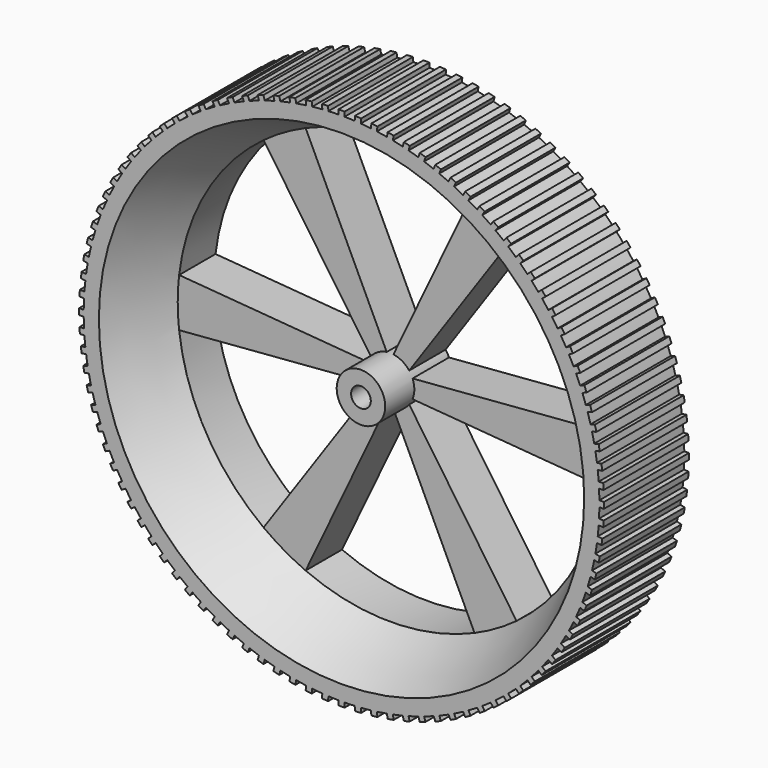
from build123d import *

# Parameters (mm, degrees)
F3_DEPTH      = 15
F4_DEPTH      = 20
F4_DEPTH_BACK = 15
F6_D          = 6.5


with BuildPart() as f1:
    # F0 (on Top) → F1 (revolve)
    with BuildSketch(Plane.XY):
        Polygon((-85, 15), (-85, -20), (-80, -20), (-70, 0), (-70, 15), align=None)
    revolve(axis=Axis((0, 7.5, 0), (0, -1, 0)))



with BuildPart() as f1b:
    # F0 (on Top) → F1, piece 2 (revolve)
    with BuildSketch(Plane.XY):
        Polygon((-8, 15), (-8, 0), (-8, -12), (0, -12), (0, 0), (0, 15), align=None)
    revolve(axis=Axis((0, 7.5, 0), (0, -1, 0)))


with BuildPart() as f1_1:
    add(f1.part)

    add(f1b.part)  # F3 merges F1b
    # F2 (on Front) → F3 (join)
    with BuildSketch(Plane.XZ):
        with BuildLine():
            Line((-7.4161984871, 3), (-69.5413546029, 8))
            ThreePointArc((-69.5413546029, 8), (-70, 0), (-69.5413546029, -8))
            Line((-69.5413546029, -8), (-7.4161984871, -3))
            ThreePointArc((-7.4161984871, -3), (-8, 0), (-7.4161984871, 3))
        make_face()
        with BuildLine():
            Line((-1.1100230322, 7.9226162893), (-27.8424740712, 64.2245796997))
            ThreePointArc((-27.8424740712, 64.2245796997), (-35, 60.6217782649), (-41.6988805317, 56.2245796997))
            Line((-41.6988805317, 56.2245796997), (-6.3061754549, 4.9226162893))
            ThreePointArc((-6.3061754549, 4.9226162893), (-4, 6.9282032303), (-1.1100230322, 7.9226162893))
        make_face()
        with BuildLine():
            Line((6.3061754549, 4.9226162893), (41.6988805317, 56.2245796997))
            ThreePointArc((41.6988805317, 56.2245796997), (35, 60.6217782649), (27.8424740712, 64.2245796997))
            Line((27.8424740712, 64.2245796997), (1.1100230322, 7.9226162893))
            ThreePointArc((1.1100230322, 7.9226162893), (4, 6.9282032303), (6.3061754549, 4.9226162893))
        make_face()
        with BuildLine():
            ThreePointArc((69.5413546029, -8), (69.8852445878, -4.0065682198), (70, 0))
            ThreePointArc((70, 0), (69.8852445878, 4.0065682198), (69.5413546029, 8))
            Line((69.5413546029, 8), (7.4161984871, 3))
            ThreePointArc((7.4161984871, 3), (7.85269342, 1.5281380997), (8, 0))
            ThreePointArc((8, 0), (7.85269342, -1.5281380997), (7.4161984871, -3))
            Line((7.4161984871, -3), (69.5413546029, -8))
        make_face()
        with BuildLine():
            ThreePointArc((27.8424740712, -64.2245796997), (35, -60.6217782649), (41.6988805317, -56.2245796997))
            Line((41.6988805317, -56.2245796997), (6.3061754549, -4.9226162893))
            ThreePointArc((6.3061754549, -4.9226162893), (4, -6.9282032303), (1.1100230322, -7.9226162893))
            Line((1.1100230322, -7.9226162893), (27.8424740712, -64.2245796997))
        make_face()
        with BuildLine():
            ThreePointArc((-41.6988805317, -56.2245796997), (-35, -60.6217782649), (-27.8424740712, -64.2245796997))
            Line((-27.8424740712, -64.2245796997), (-1.1100230322, -7.9226162893))
            ThreePointArc((-1.1100230322, -7.9226162893), (-4, -6.9282032303), (-6.3061754549, -4.9226162893))
            Line((-6.3061754549, -4.9226162893), (-41.6988805317, -56.2245796997))
        make_face()
    extrude(amount=-F3_DEPTH)

    # F2 (on Front) → F4 (join, two sides)
    with BuildSketch(Plane.XZ) as f4_sk:
        with BuildLine():
            ThreePointArc((-84.4492466745, 9.6604728718), (-84.3297496117, 10.653324853), (-84.1985802074, 11.6447022745))
            Line((-84.1985802074, 11.6447022745), (-85.6925884301, 11.8334394046))
            Line((-85.6925884301, 11.8334394046), (-85.9432548973, 9.849210002))
            Line((-85.9432548973, 9.849210002), (-84.4492466745, 9.6604728718))
        make_face()
        with BuildLine():
            Line((-85.6925884301, -11.8334394046), (-84.1985802074, -11.6447022745))
            ThreePointArc((-84.1985802074, -11.6447022745), (-84.3297496117, -10.653324853), (-84.4492466745, -9.6604728718))
            Line((-84.4492466745, -9.6604728718), (-85.9432548973, -9.849210002))
            Line((-85.9432548973, -9.849210002), (-85.6925884301, -11.8334394046))
        make_face()
        with BuildLine():
            ThreePointArc((-82.5725608379, 20.1685943156), (-82.3295686959, 21.138640409), (-82.0751810636, 22.1057606378))
            Line((-82.0751810636, 22.1057606378), (-83.5337535505, 22.4802584009))
            Line((-83.5337535505, 22.4802584009), (-84.0311333248, 20.5430920786))
            Line((-84.0311333248, 20.5430920786), (-82.5725608379, 20.1685943156))
        make_face()
        with BuildLine():
            ThreePointArc((-83.6760192663, 14.9440222079), (-83.4944163119, 15.9274117398), (-83.3012566371, 16.9085967093))
            Line((-83.3012566371, 16.9085967093), (-84.7804658734, 17.1907709624))
            Line((-84.7804658734, 17.1907709624), (-85.1552285026, 15.2261964609))
            Line((-85.1552285026, 15.2261964609), (-83.6760192663, 14.9440222079))
        make_face()
        with BuildLine():
            ThreePointArc((-84.8891914873, 4.3387980628), (-84.8322719164, 5.33719416), (-84.7636104483, 6.3348515196))
            Line((-84.7636104483, 6.3348515196), (-86.2665214895, 6.4294066677))
            Line((-86.2665214895, 6.4294066677), (-86.3921025286, 4.4333532109))
            Line((-86.3921025286, 4.4333532109), (-84.8891914873, 4.3387980628))
        make_face()
        with BuildLine():
            Line((-86.2665214895, -6.4294066677), (-84.7636104483, -6.3348515196))
            ThreePointArc((-84.7636104483, -6.3348515196), (-84.8322719164, -5.33719416), (-84.8891914873, -4.3387980628))
            Line((-84.8891914873, -4.3387980628), (-86.3921025286, -4.4333532109))
            Line((-86.3921025286, -4.4333532109), (-86.2665214895, -6.4294066677))
        make_face()
        with BuildLine():
            Line((-84.7804658734, -17.1907709624), (-83.3012566371, -16.9085967093))
            ThreePointArc((-83.3012566371, -16.9085967093), (-83.4944163119, -15.9274117398), (-83.6760192663, -14.9440222079))
            Line((-83.6760192663, -14.9440222079), (-85.1552285026, -15.2261964609))
            Line((-85.1552285026, -15.2261964609), (-84.7804658734, -17.1907709624))
        make_face()
        with BuildLine():
            Line((-83.5337535505, -22.4802584009), (-82.0751810636, -22.1057606378))
            ThreePointArc((-82.0751810636, -22.1057606378), (-82.3295686959, -21.138640409), (-82.5725608379, -20.1685943156))
            Line((-82.5725608379, -20.1685943156), (-84.0311333248, -20.5430920786))
            Line((-84.0311333248, -20.5430920786), (-83.5337535505, -22.4802584009))
        make_face()
        with BuildLine():
            Line((-81.9573716652, -27.6810265297), (-80.525192247, -27.2156832282))
            ThreePointArc((-80.525192247, -27.2156832282), (-80.8398038851, -26.2664445219), (-81.1432262358, -25.3135701956))
            Line((-81.1432262358, -25.3135701956), (-82.5754056539, -25.7789134971))
            Line((-82.5754056539, -25.7789134971), (-81.9573716652, -27.6810265297))
        make_face()
        with BuildLine():
            Line((-80.0575414766, -32.7725502931), (-78.6574072851, -32.2181979506))
            ThreePointArc((-78.6574072851, -32.2181979506), (-79.0310013005, -31.2905869782), (-79.3936563905, -30.3586449788))
            Line((-79.3936563905, -30.3586449788), (-80.793790582, -30.9129973213))
            Line((-80.793790582, -30.9129973213), (-80.0575414766, -32.7725502931))
        make_face()
        with BuildLine():
            ThreePointArc((-69.349470686, 49.1492717705), (-68.7664445219, 49.9617464449), (-68.1739001814, 50.7673057593))
            Line((-68.1739001814, 50.7673057593), (-69.3921847611, 51.6524413177))
            Line((-69.3921847611, 51.6524413177), (-70.5677552657, 50.0344073289))
            Line((-70.5677552657, 50.0344073289), (-69.349470686, 49.1492717705))
        make_face()
        with BuildLine():
            Line((-77.8417607467, -37.7347357728), (-76.4791974718, -37.0935621648))
            ThreePointArc((-76.4791974718, -37.0935621648), (-76.9102994596, -36.191239783), (-77.3307560549, -35.2839080598))
            Line((-77.3307560549, -35.2839080598), (-78.6933193299, -35.9250816679))
            Line((-78.6933193299, -35.9250816679), (-77.8417607467, -37.7347357728))
        make_face()
        with BuildLine():
            ThreePointArc((-72.2987336559, 44.6977976163), (-71.7678736677, 45.5452775732), (-71.227080066, 46.3864534673))
            Line((-71.227080066, 46.3864534673), (-72.4985387609, 47.1933456912))
            Line((-72.4985387609, 47.1933456912), (-73.5701923509, 45.5046898402))
            Line((-73.5701923509, 45.5046898402), (-72.2987336559, 44.6977976163))
        make_face()
        with BuildLine():
            Line((-75.3187741497, -42.5479994898), (-73.9991592061, -41.8225350355))
            ThreePointArc((-73.9991592061, -41.8225350355), (-74.4860678037, -40.9490622986), (-74.9626665543, -40.0699216754))
            Line((-74.9626665543, -40.0699216754), (-76.2822814979, -40.7953861298))
            Line((-76.2822814979, -40.7953861298), (-75.3187741497, -42.5479994898))
        make_face()
        with BuildLine():
            ThreePointArc((-74.9626665543, 40.0699216754), (-74.4860678037, 40.9490622986), (-73.9991592061, 41.8225350355))
            Line((-73.9991592061, 41.8225350355), (-75.3187741497, 42.5479994898))
            Line((-75.3187741497, 42.5479994898), (-76.2822814979, 40.7953861298))
            Line((-76.2822814979, 40.7953861298), (-74.9626665543, 40.0699216754))
        make_face()
        with BuildLine():
            Line((-72.4985387609, -47.1933456912), (-71.227080066, -46.3864534673))
            ThreePointArc((-71.227080066, -46.3864534673), (-71.7678736677, -45.5452775732), (-72.2987336559, -44.6977976163))
            Line((-72.2987336559, -44.6977976163), (-73.5701923509, -45.5046898402))
            Line((-73.5701923509, -45.5046898402), (-72.4985387609, -47.1933456912))
        make_face()
        with BuildLine():
            ThreePointArc((-77.3307560549, 35.2839080598), (-76.9102994596, 36.191239783), (-76.4791974718, 37.0935621648))
            Line((-76.4791974718, 37.0935621648), (-77.8417607467, 37.7347357728))
            Line((-77.8417607467, 37.7347357728), (-78.6933193299, 35.9250816679))
            Line((-78.6933193299, 35.9250816679), (-77.3307560549, 35.2839080598))
        make_face()
        with BuildLine():
            Line((-69.3921847611, -51.6524413177), (-68.1739001814, -50.7673057593))
            ThreePointArc((-68.1739001814, -50.7673057593), (-68.7664445219, -49.9617464449), (-69.349470686, -49.1492717705))
            Line((-69.349470686, -49.1492717705), (-70.5677552657, -50.0344073289))
            Line((-70.5677552657, -50.0344073289), (-69.3921847611, -51.6524413177))
        make_face()
        with BuildLine():
            ThreePointArc((-79.3936563905, 30.3586449788), (-79.0310013005, 31.2905869782), (-78.6574072851, 32.2181979506))
            Line((-78.6574072851, 32.2181979506), (-80.0575414766, 32.7725502931))
            Line((-80.0575414766, 32.7725502931), (-80.793790582, 30.9129973213))
            Line((-80.793790582, 30.9129973213), (-79.3936563905, 30.3586449788))
        make_face()
        with BuildLine():
            ThreePointArc((-81.1432262358, 25.3135701956), (-80.8398038851, 26.2664445219), (-80.525192247, 27.2156832282))
            Line((-80.525192247, 27.2156832282), (-81.9573716652, 27.6810265297))
            Line((-81.9573716652, 27.6810265297), (-82.5754056539, 25.7789134971))
            Line((-82.5754056539, 25.7789134971), (-81.1432262358, 25.3135701956))
        make_face()
        with BuildLine():
            ThreePointArc((-84.9941174435, -1), (-85, 0), (-84.9941174435, 1))
            Line((-84.9941174435, 1), (-86.5, 1))
            Line((-86.5, 1), (-86.5, -1))
            Line((-86.5, -1), (-84.9941174435, -1))
        make_face()
        with BuildLine():
            ThreePointArc((-54.9478026888, 64.8516690585), (-54.1810391286, 65.4936256359), (-53.4067762032, 66.126517038))
            Line((-53.4067762032, 66.126517038), (-54.3666618705, 67.2868194899))
            Line((-54.3666618705, 67.2868194899), (-55.907688356, 66.0119715104))
            Line((-55.907688356, 66.0119715104), (-54.9478026888, 64.8516690585))
        make_face()
        with BuildLine():
            ThreePointArc((-46.3864534673, 71.227080066), (-45.5452775732, 71.7678736677), (-44.6977976163, 72.2987336559))
            Line((-44.6977976163, 72.2987336559), (-45.5046898402, 73.5701923509))
            Line((-45.5046898402, 73.5701923509), (-47.1933456912, 72.4985387609))
            Line((-47.1933456912, 72.4985387609), (-46.3864534673, 71.227080066))
        make_face()
        with BuildLine():
            ThreePointArc((-50.7673057593, 68.1739001814), (-49.9617464449, 68.7664445219), (-49.1492717705, 69.349470686))
            Line((-49.1492717705, 69.349470686), (-50.0344073289, 70.5677552657))
            Line((-50.0344073289, 70.5677552657), (-51.6524413177, 69.3921847611))
            Line((-51.6524413177, 69.3921847611), (-50.7673057593, 68.1739001814))
        make_face()
        with BuildLine():
            ThreePointArc((-58.9114457443, 61.2734980258), (-58.1865040039, 61.9623333308), (-57.4535084895, 62.6425922376))
            Line((-57.4535084895, 62.6425922376), (-58.4843560354, 63.7403333779))
            Line((-58.4843560354, 63.7403333779), (-59.9422932903, 62.371239166))
            Line((-59.9422932903, 62.371239166), (-58.9114457443, 61.2734980258))
        make_face()
        with BuildLine():
            ThreePointArc((-62.6425922376, 57.4535084895), (-61.9623333308, 58.1865040039), (-61.2734980258, 58.9114457443))
            Line((-61.2734980258, 58.9114457443), (-62.371239166, 59.9422932903))
            Line((-62.371239166, 59.9422932903), (-63.7403333779, 58.4843560354))
            Line((-63.7403333779, 58.4843560354), (-62.6425922376, 57.4535084895))
        make_face()
        with BuildLine():
            ThreePointArc((-66.126517038, 53.4067762032), (-65.4936256359, 54.1810391286), (-64.8516690585, 54.9478026888))
            Line((-64.8516690585, 54.9478026888), (-66.0119715104, 55.907688356))
            Line((-66.0119715104, 55.907688356), (-67.2868194899, 54.3666618705))
            Line((-67.2868194899, 54.3666618705), (-66.126517038, 53.4067762032))
        make_face()
        with BuildLine():
            ThreePointArc((-37.0935621648, 76.4791974718), (-36.191239783, 76.9102994596), (-35.2839080598, 77.3307560549))
            Line((-35.2839080598, 77.3307560549), (-35.9250816679, 78.6933193299))
            Line((-35.9250816679, 78.6933193299), (-37.7347357728, 77.8417607467))
            Line((-37.7347357728, 77.8417607467), (-37.0935621648, 76.4791974718))
        make_face()
        with BuildLine():
            ThreePointArc((-32.2181979506, 78.6574072851), (-31.2905869782, 79.0310013005), (-30.3586449788, 79.3936563905))
            Line((-30.3586449788, 79.3936563905), (-30.9129973213, 80.793790582))
            Line((-30.9129973213, 80.793790582), (-32.7725502931, 80.0575414766))
            Line((-32.7725502931, 80.0575414766), (-32.2181979506, 78.6574072851))
        make_face()
        with BuildLine():
            ThreePointArc((35.2839080598, 77.3307560549), (36.191239783, 76.9102994596), (37.0935621648, 76.4791974718))
            Line((37.0935621648, 76.4791974718), (37.7347357728, 77.8417607467))
            Line((37.7347357728, 77.8417607467), (35.9250816679, 78.6933193299))
            Line((35.9250816679, 78.6933193299), (35.2839080598, 77.3307560549))
        make_face()
        with BuildLine():
            ThreePointArc((30.3586449788, 79.3936563905), (31.2905869782, 79.0310013005), (32.2181979506, 78.6574072851))
            Line((32.2181979506, 78.6574072851), (32.7725502931, 80.0575414766))
            Line((32.7725502931, 80.0575414766), (30.9129973213, 80.793790582))
            Line((30.9129973213, 80.793790582), (30.3586449788, 79.3936563905))
        make_face()
        with BuildLine():
            ThreePointArc((25.3135701956, 81.1432262358), (26.2664445219, 80.8398038851), (27.2156832282, 80.525192247))
            Line((27.2156832282, 80.525192247), (27.6810265297, 81.9573716652))
            Line((27.6810265297, 81.9573716652), (25.7789134971, 82.5754056539))
            Line((25.7789134971, 82.5754056539), (25.3135701956, 81.1432262358))
        make_face()
        with BuildLine():
            ThreePointArc((-27.2156832282, 80.525192247), (-26.2664445219, 80.8398038851), (-25.3135701956, 81.1432262358))
            Line((-25.3135701956, 81.1432262358), (-25.7789134971, 82.5754056539))
            Line((-25.7789134971, 82.5754056539), (-27.6810265297, 81.9573716652))
            Line((-27.6810265297, 81.9573716652), (-27.2156832282, 80.525192247))
        make_face()
        with BuildLine():
            ThreePointArc((-41.8225350355, 73.9991592061), (-40.9490622986, 74.4860678037), (-40.0699216754, 74.9626665543))
            Line((-40.0699216754, 74.9626665543), (-40.7953861298, 76.2822814979))
            Line((-40.7953861298, 76.2822814979), (-42.5479994898, 75.3187741497))
            Line((-42.5479994898, 75.3187741497), (-41.8225350355, 73.9991592061))
        make_face()
        with BuildLine():
            ThreePointArc((20.1685943156, 82.5725608379), (21.138640409, 82.3295686959), (22.1057606378, 82.0751810636))
            Line((22.1057606378, 82.0751810636), (22.4802584009, 83.5337535505))
            Line((22.4802584009, 83.5337535505), (20.5430920786, 84.0311333248))
            Line((20.5430920786, 84.0311333248), (20.1685943156, 82.5725608379))
        make_face()
        with BuildLine():
            ThreePointArc((14.9440222079, 83.6760192663), (15.9274117398, 83.4944163119), (16.9085967093, 83.3012566371))
            Line((16.9085967093, 83.3012566371), (17.1907709624, 84.7804658734))
            Line((17.1907709624, 84.7804658734), (15.2261964609, 85.1552285026))
            Line((15.2261964609, 85.1552285026), (14.9440222079, 83.6760192663))
        make_face()
        with BuildLine():
            ThreePointArc((9.6604728718, 84.4492466745), (10.653324853, 84.3297496117), (11.6447022745, 84.1985802074))
            Line((11.6447022745, 84.1985802074), (11.8334394046, 85.6925884301))
            Line((11.8334394046, 85.6925884301), (9.849210002, 85.9432548973))
            Line((9.849210002, 85.9432548973), (9.6604728718, 84.4492466745))
        make_face()
        with BuildLine():
            ThreePointArc((4.3387980628, 84.8891914873), (5.33719416, 84.8322719164), (6.3348515196, 84.7636104483))
            Line((6.3348515196, 84.7636104483), (6.4294066677, 86.2665214895))
            Line((6.4294066677, 86.2665214895), (4.4333532109, 86.3921025286))
            Line((4.4333532109, 86.3921025286), (4.3387980628, 84.8891914873))
        make_face()
        with BuildLine():
            ThreePointArc((-1, 84.9941174435), (0, 85), (1, 84.9941174435))
            Line((1, 84.9941174435), (1, 86.5))
            Line((1, 86.5), (-1, 86.5))
            Line((-1, 86.5), (-1, 84.9941174435))
        make_face()
        with BuildLine():
            ThreePointArc((-6.3348515196, 84.7636104483), (-5.33719416, 84.8322719164), (-4.3387980628, 84.8891914873))
            Line((-4.3387980628, 84.8891914873), (-4.4333532109, 86.3921025286))
            Line((-4.4333532109, 86.3921025286), (-6.4294066677, 86.2665214895))
            Line((-6.4294066677, 86.2665214895), (-6.3348515196, 84.7636104483))
        make_face()
        with BuildLine():
            ThreePointArc((-11.6447022745, 84.1985802074), (-10.653324853, 84.3297496117), (-9.6604728718, 84.4492466745))
            Line((-9.6604728718, 84.4492466745), (-9.849210002, 85.9432548973))
            Line((-9.849210002, 85.9432548973), (-11.8334394046, 85.6925884301))
            Line((-11.8334394046, 85.6925884301), (-11.6447022745, 84.1985802074))
        make_face()
        with BuildLine():
            ThreePointArc((-16.9085967093, 83.3012566371), (-15.9274117398, 83.4944163119), (-14.9440222079, 83.6760192663))
            Line((-14.9440222079, 83.6760192663), (-15.2261964609, 85.1552285026))
            Line((-15.2261964609, 85.1552285026), (-17.1907709624, 84.7804658734))
            Line((-17.1907709624, 84.7804658734), (-16.9085967093, 83.3012566371))
        make_face()
        with BuildLine():
            ThreePointArc((-22.1057606378, 82.0751810636), (-21.138640409, 82.3295686959), (-20.1685943156, 82.5725608379))
            Line((-20.1685943156, 82.5725608379), (-20.5430920786, 84.0311333248))
            Line((-20.5430920786, 84.0311333248), (-22.4802584009, 83.5337535505))
            Line((-22.4802584009, 83.5337535505), (-22.1057606378, 82.0751810636))
        make_face()
        with BuildLine():
            ThreePointArc((40.0699216754, 74.9626665543), (40.9490622986, 74.4860678037), (41.8225350355, 73.9991592061))
            Line((41.8225350355, 73.9991592061), (42.5479994898, 75.3187741497))
            Line((42.5479994898, 75.3187741497), (40.7953861298, 76.2822814979))
            Line((40.7953861298, 76.2822814979), (40.0699216754, 74.9626665543))
        make_face()
        with BuildLine():
            ThreePointArc((44.6977976163, 72.2987336559), (45.5452775732, 71.7678736677), (46.3864534673, 71.227080066))
            Line((46.3864534673, 71.227080066), (47.1933456912, 72.4985387609))
            Line((47.1933456912, 72.4985387609), (45.5046898402, 73.5701923509))
            Line((45.5046898402, 73.5701923509), (44.6977976163, 72.2987336559))
        make_face()
        with BuildLine():
            ThreePointArc((53.4067762032, 66.126517038), (54.1810391286, 65.4936256359), (54.9478026888, 64.8516690585))
            Line((54.9478026888, 64.8516690585), (55.907688356, 66.0119715104))
            Line((55.907688356, 66.0119715104), (54.3666618705, 67.2868194899))
            Line((54.3666618705, 67.2868194899), (53.4067762032, 66.126517038))
        make_face()
        with BuildLine():
            ThreePointArc((57.4535084895, 62.6425922376), (58.1865040039, 61.9623333308), (58.9114457443, 61.2734980258))
            Line((58.9114457443, 61.2734980258), (59.9422932903, 62.371239166))
            Line((59.9422932903, 62.371239166), (58.4843560354, 63.7403333779))
            Line((58.4843560354, 63.7403333779), (57.4535084895, 62.6425922376))
        make_face()
        with BuildLine():
            ThreePointArc((68.1739001814, 50.7673057593), (68.7664445219, 49.9617464449), (69.349470686, 49.1492717705))
            Line((69.349470686, 49.1492717705), (70.5677552657, 50.0344073289))
            Line((70.5677552657, 50.0344073289), (69.3921847611, 51.6524413177))
            Line((69.3921847611, 51.6524413177), (68.1739001814, 50.7673057593))
        make_face()
        with BuildLine():
            ThreePointArc((64.8516690585, 54.9478026888), (65.4936256359, 54.1810391286), (66.126517038, 53.4067762032))
            Line((66.126517038, 53.4067762032), (67.2868194899, 54.3666618705))
            Line((67.2868194899, 54.3666618705), (66.0119715104, 55.907688356))
            Line((66.0119715104, 55.907688356), (64.8516690585, 54.9478026888))
        make_face()
        with BuildLine():
            ThreePointArc((61.2734980258, 58.9114457443), (61.9623333308, 58.1865040039), (62.6425922376, 57.4535084895))
            Line((62.6425922376, 57.4535084895), (63.7403333779, 58.4843560354))
            Line((63.7403333779, 58.4843560354), (62.371239166, 59.9422932903))
            Line((62.371239166, 59.9422932903), (61.2734980258, 58.9114457443))
        make_face()
        with BuildLine():
            ThreePointArc((82.0751810636, 22.1057606378), (82.3295686959, 21.138640409), (82.5725608379, 20.1685943156))
            Line((82.5725608379, 20.1685943156), (84.0311333248, 20.5430920786))
            Line((84.0311333248, 20.5430920786), (83.5337535505, 22.4802584009))
            Line((83.5337535505, 22.4802584009), (82.0751810636, 22.1057606378))
        make_face()
        with BuildLine():
            ThreePointArc((80.525192247, 27.2156832282), (80.8398038851, 26.2664445219), (81.1432262358, 25.3135701956))
            Line((81.1432262358, 25.3135701956), (82.5754056539, 25.7789134971))
            Line((82.5754056539, 25.7789134971), (81.9573716652, 27.6810265297))
            Line((81.9573716652, 27.6810265297), (80.525192247, 27.2156832282))
        make_face()
        with BuildLine():
            ThreePointArc((78.6574072851, 32.2181979506), (79.0310013005, 31.2905869782), (79.3936563905, 30.3586449788))
            Line((79.3936563905, 30.3586449788), (80.793790582, 30.9129973213))
            Line((80.793790582, 30.9129973213), (80.0575414766, 32.7725502931))
            Line((80.0575414766, 32.7725502931), (78.6574072851, 32.2181979506))
        make_face()
        with BuildLine():
            ThreePointArc((76.4791974718, 37.0935621648), (76.9102994596, 36.191239783), (77.3307560549, 35.2839080598))
            Line((77.3307560549, 35.2839080598), (78.6933193299, 35.9250816679))
            Line((78.6933193299, 35.9250816679), (77.8417607467, 37.7347357728))
            Line((77.8417607467, 37.7347357728), (76.4791974718, 37.0935621648))
        make_face()
        with BuildLine():
            ThreePointArc((73.9991592061, 41.8225350355), (74.4860678037, 40.9490622986), (74.9626665543, 40.0699216754))
            Line((74.9626665543, 40.0699216754), (76.2822814979, 40.7953861298))
            Line((76.2822814979, 40.7953861298), (75.3187741497, 42.5479994898))
            Line((75.3187741497, 42.5479994898), (73.9991592061, 41.8225350355))
        make_face()
        with BuildLine():
            ThreePointArc((71.227080066, 46.3864534673), (71.7678736677, 45.5452775732), (72.2987336559, 44.6977976163))
            Line((72.2987336559, 44.6977976163), (73.5701923509, 45.5046898402))
            Line((73.5701923509, 45.5046898402), (72.4985387609, 47.1933456912))
            Line((72.4985387609, 47.1933456912), (71.227080066, 46.3864534673))
        make_face()
        with BuildLine():
            Line((84.0311333248, -20.5430920786), (82.5725608379, -20.1685943156))
            ThreePointArc((82.5725608379, -20.1685943156), (82.3295686959, -21.138640409), (82.0751810636, -22.1057606378))
            Line((82.0751810636, -22.1057606378), (83.5337535505, -22.4802584009))
            Line((83.5337535505, -22.4802584009), (84.0311333248, -20.5430920786))
        make_face()
        with BuildLine():
            Line((76.2822814979, -40.7953861298), (74.9626665543, -40.0699216754))
            ThreePointArc((74.9626665543, -40.0699216754), (74.4860678037, -40.9490622986), (73.9991592061, -41.8225350355))
            Line((73.9991592061, -41.8225350355), (75.3187741497, -42.5479994898))
            Line((75.3187741497, -42.5479994898), (76.2822814979, -40.7953861298))
        make_face()
        with BuildLine():
            Line((80.793790582, -30.9129973213), (79.3936563905, -30.3586449788))
            ThreePointArc((79.3936563905, -30.3586449788), (79.0310013005, -31.2905869782), (78.6574072851, -32.2181979506))
            Line((78.6574072851, -32.2181979506), (80.0575414766, -32.7725502931))
            Line((80.0575414766, -32.7725502931), (80.793790582, -30.9129973213))
        make_face()
        with BuildLine():
            Line((82.5754056539, -25.7789134971), (81.1432262358, -25.3135701956))
            ThreePointArc((81.1432262358, -25.3135701956), (80.8398038851, -26.2664445219), (80.525192247, -27.2156832282))
            Line((80.525192247, -27.2156832282), (81.9573716652, -27.6810265297))
            Line((81.9573716652, -27.6810265297), (82.5754056539, -25.7789134971))
        make_face()
        with BuildLine():
            Line((85.1552285026, -15.2261964609), (83.6760192663, -14.9440222079))
            ThreePointArc((83.6760192663, -14.9440222079), (83.4944163119, -15.9274117398), (83.3012566371, -16.9085967093))
            Line((83.3012566371, -16.9085967093), (84.7804658734, -17.1907709624))
            Line((84.7804658734, -17.1907709624), (85.1552285026, -15.2261964609))
        make_face()
        with BuildLine():
            Line((85.9432548973, -9.849210002), (84.4492466745, -9.6604728718))
            ThreePointArc((84.4492466745, -9.6604728718), (84.3297496117, -10.653324853), (84.1985802074, -11.6447022745))
            Line((84.1985802074, -11.6447022745), (85.6925884301, -11.8334394046))
            Line((85.6925884301, -11.8334394046), (85.9432548973, -9.849210002))
        make_face()
        with BuildLine():
            Line((86.3921025286, -4.4333532109), (84.8891914873, -4.3387980628))
            ThreePointArc((84.8891914873, -4.3387980628), (84.8322719164, -5.33719416), (84.7636104483, -6.3348515196))
            Line((84.7636104483, -6.3348515196), (86.2665214895, -6.4294066677))
            Line((86.2665214895, -6.4294066677), (86.3921025286, -4.4333532109))
        make_face()
        with BuildLine():
            ThreePointArc((84.9941174435, 1), (84.9985293482, 0.500008651), (85, 0))
            ThreePointArc((85, 0), (84.9985293482, -0.500008651), (84.9941174435, -1))
            Line((84.9941174435, -1), (86.5, -1))
            Line((86.5, -1), (86.5, 1))
            Line((86.5, 1), (84.9941174435, 1))
        make_face()
        with BuildLine():
            Line((73.5701923509, -45.5046898402), (72.2987336559, -44.6977976163))
            ThreePointArc((72.2987336559, -44.6977976163), (71.7678736677, -45.5452775732), (71.227080066, -46.3864534673))
            Line((71.227080066, -46.3864534673), (72.4985387609, -47.1933456912))
            Line((72.4985387609, -47.1933456912), (73.5701923509, -45.5046898402))
        make_face()
        with BuildLine():
            Line((78.6933193299, -35.9250816679), (77.3307560549, -35.2839080598))
            ThreePointArc((77.3307560549, -35.2839080598), (76.9102994596, -36.191239783), (76.4791974718, -37.0935621648))
            Line((76.4791974718, -37.0935621648), (77.8417607467, -37.7347357728))
            Line((77.8417607467, -37.7347357728), (78.6933193299, -35.9250816679))
        make_face()
        with BuildLine():
            ThreePointArc((84.7636104483, 6.3348515196), (84.8322719164, 5.33719416), (84.8891914873, 4.3387980628))
            Line((84.8891914873, 4.3387980628), (86.3921025286, 4.4333532109))
            Line((86.3921025286, 4.4333532109), (86.2665214895, 6.4294066677))
            Line((86.2665214895, 6.4294066677), (84.7636104483, 6.3348515196))
        make_face()
        with BuildLine():
            ThreePointArc((84.1985802074, 11.6447022745), (84.3297496117, 10.653324853), (84.4492466745, 9.6604728718))
            Line((84.4492466745, 9.6604728718), (85.9432548973, 9.849210002))
            Line((85.9432548973, 9.849210002), (85.6925884301, 11.8334394046))
            Line((85.6925884301, 11.8334394046), (84.1985802074, 11.6447022745))
        make_face()
        with BuildLine():
            ThreePointArc((83.3012566371, 16.9085967093), (83.4944163119, 15.9274117398), (83.6760192663, 14.9440222079))
            Line((83.6760192663, 14.9440222079), (85.1552285026, 15.2261964609))
            Line((85.1552285026, 15.2261964609), (84.7804658734, 17.1907709624))
            Line((84.7804658734, 17.1907709624), (83.3012566371, 16.9085967093))
        make_face()
        with BuildLine():
            Line((-66.0119715104, -55.907688356), (-64.8516690585, -54.9478026888))
            ThreePointArc((-64.8516690585, -54.9478026888), (-65.4936256359, -54.1810391286), (-66.126517038, -53.4067762032))
            Line((-66.126517038, -53.4067762032), (-67.2868194899, -54.3666618705))
            Line((-67.2868194899, -54.3666618705), (-66.0119715104, -55.907688356))
        make_face()
        with BuildLine():
            Line((-54.3666618705, -67.2868194899), (-53.4067762032, -66.126517038))
            ThreePointArc((-53.4067762032, -66.126517038), (-54.1810391286, -65.4936256359), (-54.9478026888, -64.8516690585))
            Line((-54.9478026888, -64.8516690585), (-55.907688356, -66.0119715104))
            Line((-55.907688356, -66.0119715104), (-54.3666618705, -67.2868194899))
        make_face()
        with BuildLine():
            Line((-62.371239166, -59.9422932903), (-61.2734980258, -58.9114457443))
            ThreePointArc((-61.2734980258, -58.9114457443), (-61.9623333308, -58.1865040039), (-62.6425922376, -57.4535084895))
            Line((-62.6425922376, -57.4535084895), (-63.7403333779, -58.4843560354))
            Line((-63.7403333779, -58.4843560354), (-62.371239166, -59.9422932903))
        make_face()
        with BuildLine():
            Line((-58.4843560354, -63.7403333779), (-57.4535084895, -62.6425922376))
            ThreePointArc((-57.4535084895, -62.6425922376), (-58.1865040039, -61.9623333308), (-58.9114457443, -61.2734980258))
            Line((-58.9114457443, -61.2734980258), (-59.9422932903, -62.371239166))
            Line((-59.9422932903, -62.371239166), (-58.4843560354, -63.7403333779))
        make_face()
        with BuildLine():
            Line((-50.0344073289, -70.5677552657), (-49.1492717705, -69.349470686))
            ThreePointArc((-49.1492717705, -69.349470686), (-49.9617464449, -68.7664445219), (-50.7673057593, -68.1739001814))
            Line((-50.7673057593, -68.1739001814), (-51.6524413177, -69.3921847611))
            Line((-51.6524413177, -69.3921847611), (-50.0344073289, -70.5677552657))
        make_face()
        with BuildLine():
            Line((-45.5046898402, -73.5701923509), (-44.6977976163, -72.2987336559))
            ThreePointArc((-44.6977976163, -72.2987336559), (-45.5452775732, -71.7678736677), (-46.3864534673, -71.227080066))
            Line((-46.3864534673, -71.227080066), (-47.1933456912, -72.4985387609))
            Line((-47.1933456912, -72.4985387609), (-45.5046898402, -73.5701923509))
        make_face()
        with BuildLine():
            Line((47.1933456912, -72.4985387609), (46.3864534673, -71.227080066))
            ThreePointArc((46.3864534673, -71.227080066), (45.5452775732, -71.7678736677), (44.6977976163, -72.2987336559))
            Line((44.6977976163, -72.2987336559), (45.5046898402, -73.5701923509))
            Line((45.5046898402, -73.5701923509), (47.1933456912, -72.4985387609))
        make_face()
        with BuildLine():
            Line((-35.9250816679, -78.6933193299), (-35.2839080598, -77.3307560549))
            ThreePointArc((-35.2839080598, -77.3307560549), (-36.191239783, -76.9102994596), (-37.0935621648, -76.4791974718))
            Line((-37.0935621648, -76.4791974718), (-37.7347357728, -77.8417607467))
            Line((-37.7347357728, -77.8417607467), (-35.9250816679, -78.6933193299))
        make_face()
        with BuildLine():
            Line((-30.9129973213, -80.793790582), (-30.3586449788, -79.3936563905))
            ThreePointArc((-30.3586449788, -79.3936563905), (-31.2905869782, -79.0310013005), (-32.2181979506, -78.6574072851))
            Line((-32.2181979506, -78.6574072851), (-32.7725502931, -80.0575414766))
            Line((-32.7725502931, -80.0575414766), (-30.9129973213, -80.793790582))
        make_face()
        with BuildLine():
            Line((1, -86.5), (1, -84.9941174435))
            ThreePointArc((1, -84.9941174435), (0, -85), (-1, -84.9941174435))
            Line((-1, -84.9941174435), (-1, -86.5))
            Line((-1, -86.5), (1, -86.5))
        make_face()
        with BuildLine():
            Line((27.6810265297, -81.9573716652), (27.2156832282, -80.525192247))
            ThreePointArc((27.2156832282, -80.525192247), (26.2664445219, -80.8398038851), (25.3135701956, -81.1432262358))
            Line((25.3135701956, -81.1432262358), (25.7789134971, -82.5754056539))
            Line((25.7789134971, -82.5754056539), (27.6810265297, -81.9573716652))
        make_face()
        with BuildLine():
            Line((17.1907709624, -84.7804658734), (16.9085967093, -83.3012566371))
            ThreePointArc((16.9085967093, -83.3012566371), (15.9274117398, -83.4944163119), (14.9440222079, -83.6760192663))
            Line((14.9440222079, -83.6760192663), (15.2261964609, -85.1552285026))
            Line((15.2261964609, -85.1552285026), (17.1907709624, -84.7804658734))
        make_face()
        with BuildLine():
            Line((22.4802584009, -83.5337535505), (22.1057606378, -82.0751810636))
            ThreePointArc((22.1057606378, -82.0751810636), (21.138640409, -82.3295686959), (20.1685943156, -82.5725608379))
            Line((20.1685943156, -82.5725608379), (20.5430920786, -84.0311333248))
            Line((20.5430920786, -84.0311333248), (22.4802584009, -83.5337535505))
        make_face()
        with BuildLine():
            Line((32.7725502931, -80.0575414766), (32.2181979506, -78.6574072851))
            ThreePointArc((32.2181979506, -78.6574072851), (31.2905869782, -79.0310013005), (30.3586449788, -79.3936563905))
            Line((30.3586449788, -79.3936563905), (30.9129973213, -80.793790582))
            Line((30.9129973213, -80.793790582), (32.7725502931, -80.0575414766))
        make_face()
        with BuildLine():
            Line((37.7347357728, -77.8417607467), (37.0935621648, -76.4791974718))
            ThreePointArc((37.0935621648, -76.4791974718), (36.191239783, -76.9102994596), (35.2839080598, -77.3307560549))
            Line((35.2839080598, -77.3307560549), (35.9250816679, -78.6933193299))
            Line((35.9250816679, -78.6933193299), (37.7347357728, -77.8417607467))
        make_face()
        with BuildLine():
            Line((42.5479994898, -75.3187741497), (41.8225350355, -73.9991592061))
            ThreePointArc((41.8225350355, -73.9991592061), (40.9490622986, -74.4860678037), (40.0699216754, -74.9626665543))
            Line((40.0699216754, -74.9626665543), (40.7953861298, -76.2822814979))
            Line((40.7953861298, -76.2822814979), (42.5479994898, -75.3187741497))
        make_face()
        with BuildLine():
            Line((-40.7953861298, -76.2822814979), (-40.0699216754, -74.9626665543))
            ThreePointArc((-40.0699216754, -74.9626665543), (-40.9490622986, -74.4860678037), (-41.8225350355, -73.9991592061))
            Line((-41.8225350355, -73.9991592061), (-42.5479994898, -75.3187741497))
            Line((-42.5479994898, -75.3187741497), (-40.7953861298, -76.2822814979))
        make_face()
        with BuildLine():
            Line((-25.7789134971, -82.5754056539), (-25.3135701956, -81.1432262358))
            ThreePointArc((-25.3135701956, -81.1432262358), (-26.2664445219, -80.8398038851), (-27.2156832282, -80.525192247))
            Line((-27.2156832282, -80.525192247), (-27.6810265297, -81.9573716652))
            Line((-27.6810265297, -81.9573716652), (-25.7789134971, -82.5754056539))
        make_face()
        with BuildLine():
            Line((-20.5430920786, -84.0311333248), (-20.1685943156, -82.5725608379))
            ThreePointArc((-20.1685943156, -82.5725608379), (-21.138640409, -82.3295686959), (-22.1057606378, -82.0751810636))
            Line((-22.1057606378, -82.0751810636), (-22.4802584009, -83.5337535505))
            Line((-22.4802584009, -83.5337535505), (-20.5430920786, -84.0311333248))
        make_face()
        with BuildLine():
            Line((-15.2261964609, -85.1552285026), (-14.9440222079, -83.6760192663))
            ThreePointArc((-14.9440222079, -83.6760192663), (-15.9274117398, -83.4944163119), (-16.9085967093, -83.3012566371))
            Line((-16.9085967093, -83.3012566371), (-17.1907709624, -84.7804658734))
            Line((-17.1907709624, -84.7804658734), (-15.2261964609, -85.1552285026))
        make_face()
        with BuildLine():
            Line((-9.849210002, -85.9432548973), (-9.6604728718, -84.4492466745))
            ThreePointArc((-9.6604728718, -84.4492466745), (-10.653324853, -84.3297496117), (-11.6447022745, -84.1985802074))
            Line((-11.6447022745, -84.1985802074), (-11.8334394046, -85.6925884301))
            Line((-11.8334394046, -85.6925884301), (-9.849210002, -85.9432548973))
        make_face()
        with BuildLine():
            Line((-4.4333532109, -86.3921025286), (-4.3387980628, -84.8891914873))
            ThreePointArc((-4.3387980628, -84.8891914873), (-5.33719416, -84.8322719164), (-6.3348515196, -84.7636104483))
            Line((-6.3348515196, -84.7636104483), (-6.4294066677, -86.2665214895))
            Line((-6.4294066677, -86.2665214895), (-4.4333532109, -86.3921025286))
        make_face()
        with BuildLine():
            Line((6.4294066677, -86.2665214895), (6.3348515196, -84.7636104483))
            ThreePointArc((6.3348515196, -84.7636104483), (5.33719416, -84.8322719164), (4.3387980628, -84.8891914873))
            Line((4.3387980628, -84.8891914873), (4.4333532109, -86.3921025286))
            Line((4.4333532109, -86.3921025286), (6.4294066677, -86.2665214895))
        make_face()
        with BuildLine():
            Line((11.8334394046, -85.6925884301), (11.6447022745, -84.1985802074))
            ThreePointArc((11.6447022745, -84.1985802074), (10.653324853, -84.3297496117), (9.6604728718, -84.4492466745))
            Line((9.6604728718, -84.4492466745), (9.849210002, -85.9432548973))
            Line((9.849210002, -85.9432548973), (11.8334394046, -85.6925884301))
        make_face()
        with BuildLine():
            Line((51.6524413177, -69.3921847611), (50.7673057593, -68.1739001814))
            ThreePointArc((50.7673057593, -68.1739001814), (49.9617464449, -68.7664445219), (49.1492717705, -69.349470686))
            Line((49.1492717705, -69.349470686), (50.0344073289, -70.5677552657))
            Line((50.0344073289, -70.5677552657), (51.6524413177, -69.3921847611))
        make_face()
        with BuildLine():
            Line((55.907688356, -66.0119715104), (54.9478026888, -64.8516690585))
            ThreePointArc((54.9478026888, -64.8516690585), (54.1810391286, -65.4936256359), (53.4067762032, -66.126517038))
            Line((53.4067762032, -66.126517038), (54.3666618705, -67.2868194899))
            Line((54.3666618705, -67.2868194899), (55.907688356, -66.0119715104))
        make_face()
        with BuildLine():
            Line((59.9422932903, -62.371239166), (58.9114457443, -61.2734980258))
            ThreePointArc((58.9114457443, -61.2734980258), (58.1865040039, -61.9623333308), (57.4535084895, -62.6425922376))
            Line((57.4535084895, -62.6425922376), (58.4843560354, -63.7403333779))
            Line((58.4843560354, -63.7403333779), (59.9422932903, -62.371239166))
        make_face()
        with BuildLine():
            Line((67.2868194899, -54.3666618705), (66.126517038, -53.4067762032))
            ThreePointArc((66.126517038, -53.4067762032), (65.4936256359, -54.1810391286), (64.8516690585, -54.9478026888))
            Line((64.8516690585, -54.9478026888), (66.0119715104, -55.907688356))
            Line((66.0119715104, -55.907688356), (67.2868194899, -54.3666618705))
        make_face()
        with BuildLine():
            Line((63.7403333779, -58.4843560354), (62.6425922376, -57.4535084895))
            ThreePointArc((62.6425922376, -57.4535084895), (61.9623333308, -58.1865040039), (61.2734980258, -58.9114457443))
            Line((61.2734980258, -58.9114457443), (62.371239166, -59.9422932903))
            Line((62.371239166, -59.9422932903), (63.7403333779, -58.4843560354))
        make_face()
        with BuildLine():
            Line((70.5677552657, -50.0344073289), (69.349470686, -49.1492717705))
            ThreePointArc((69.349470686, -49.1492717705), (68.7664445219, -49.9617464449), (68.1739001814, -50.7673057593))
            Line((68.1739001814, -50.7673057593), (69.3921847611, -51.6524413177))
            Line((69.3921847611, -51.6524413177), (70.5677552657, -50.0344073289))
        make_face()
        with BuildLine():
            ThreePointArc((49.1492717705, 69.349470686), (49.9617464449, 68.7664445219), (50.7673057593, 68.1739001814))
            Line((50.7673057593, 68.1739001814), (51.6524413177, 69.3921847611))
            Line((51.6524413177, 69.3921847611), (50.0344073289, 70.5677552657))
            Line((50.0344073289, 70.5677552657), (49.1492717705, 69.349470686))
        make_face()
    extrude(amount=F4_DEPTH)
    extrude(f4_sk.sketch, amount=-F4_DEPTH_BACK)

    # F6 (through all)
    with Locations(Plane.XZ.offset(12)):
        with Locations((0, 0)):
            Hole(F6_D / 2)


solid = f1_1.part
